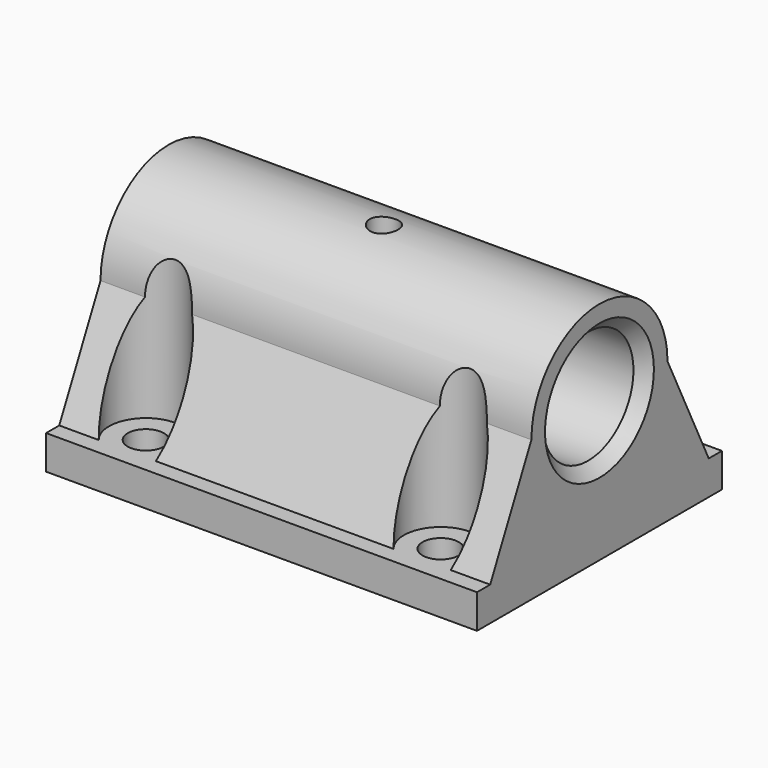
from build123d import *

# Parameters (mm, degrees)
SKETCH_W        = 38
SKETCH_H        = 27
SKETCH_R        = 1.65
PAD_DEPTH       = 3
SKETCH001_R     = 5
PAD001_DEPTH    = 38
SKETCH002_R     = 1.6
POCKET_DEPTH    = 19.894216
SKETCH004_R     = 1.25
POCKET002_DEPTH = 20.001
SKETCH005_R     = 3.25
POCKET003_DEPTH = 16.894216
CHAMFER_SIZE    = 1
CHAMFER001_SIZE = 1


with BuildPart() as part:
    # Sketch → Pad (new body)
    with BuildSketch(Plane.XY):
        Rectangle(SKETCH_W, SKETCH_H)
        with Locations((-13, -10)):
            Circle(SKETCH_R, mode=Mode.SUBTRACT)
        with Locations((-13, 10)):
            Circle(SKETCH_R, mode=Mode.SUBTRACT)
        with Locations((13, 10)):
            Circle(SKETCH_R, mode=Mode.SUBTRACT)
        with Locations((13, -10)):
            Circle(SKETCH_R, mode=Mode.SUBTRACT)
    extrude(amount=PAD_DEPTH)

    # Sketch001 (on Face2 of Pad) → Pad001 (join)
    with BuildSketch(Plane.YZ.offset(19)):
        with BuildLine():
            ThreePointArc((7.5, 12.393216), (0, 19.893216), (-7.5, 12.393216))
            Line((-7.5, 12.393216), (-13.5, 0))
            Line((-13.5, 0), (13.5, 0))
            Line((7.5, 12.393216), (13.5, 0))
        make_face()
        with Locations((0, 12.393216)):
            Circle(SKETCH001_R, mode=Mode.SUBTRACT)
    extrude(amount=-PAD001_DEPTH)

    # Sketch002 (on Face4 of Pad001) → Pocket (cut, through all)
    with BuildSketch(Plane(origin=(0, 0, 0), x_dir=(1, 0, 0), z_dir=(0, 0, -1))):
        with Locations((13, 10)):
            Circle(SKETCH002_R)
        with Locations((-13, 10)):
            Circle(SKETCH002_R)
        with Locations((-13, -10)):
            Circle(SKETCH002_R)
        with Locations((13, -10)):
            Circle(SKETCH002_R)
    extrude(amount=-POCKET_DEPTH, mode=Mode.SUBTRACT)

    # Sketch004 → Pocket002 (cut, through all)
    with BuildSketch(Plane.XY.offset(20)):
        Circle(SKETCH004_R)
    extrude(amount=-POCKET002_DEPTH, mode=Mode.SUBTRACT)

    # Sketch005 (on Face19 of Pocket002) → Pocket003 (cut, through all)
    with BuildSketch(Plane.XY.offset(3)):
        with Locations((-13, 10)):
            Circle(SKETCH005_R)
        with Locations((13, 10)):
            Circle(SKETCH005_R)
        with Locations((13, -10)):
            Circle(SKETCH005_R)
        with Locations((-13, -10)):
            Circle(SKETCH005_R)
    extrude(amount=POCKET003_DEPTH, mode=Mode.SUBTRACT)

    # Chamfer
    chamfer_edges = [part.edges().sort_by_distance(p)[0] for p in [
        (19, -5, 12.393216),
    ]]
    chamfer(chamfer_edges, length=CHAMFER_SIZE)

    # Chamfer001
    chamfer001_edges = [part.edges().sort_by_distance(p)[0] for p in [
        (-19, -5, 12.393216),
    ]]
    chamfer(chamfer001_edges, length=CHAMFER001_SIZE)


solid = part.part
